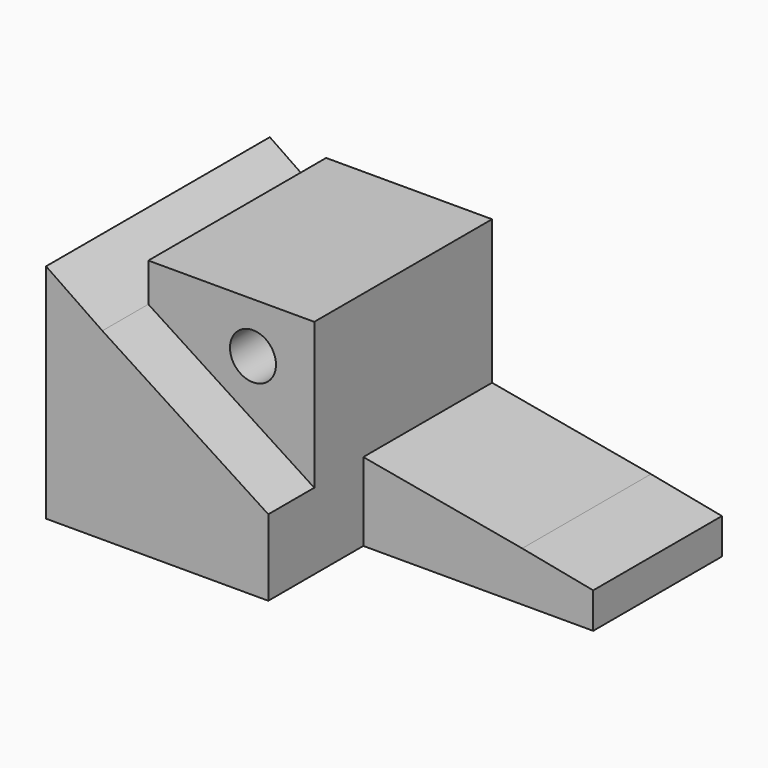
from build123d import *

# Parameters (mm, degrees)
F1_DEPTH  = 58
F3_DEPTH  = 58.001
F6_DEPTH  = 42.001
F7_DEPTH  = 15
F9_DEPTH  = 42.001
F10_R     = 6
F11_DEPTH = 26


with BuildPart() as f1:
    # F0 (on Top) → F1 (new body)
    with BuildSketch(Plane.XY):
        Polygon((0, 58), (0, 0), (58, 0), (58, 16), (16, 16), (16, 42), (88, 42), (88, 16), (118, 16), (118, 58), align=None)
        Polygon((16, 16), (58, 16), (88, 16), (88, 42), (16, 42), align=None)
    extrude(amount=F1_DEPTH)

    # F2 (on face) → F3 (cut, through all)
    with BuildSketch(Plane.XZ):
        Polygon((14.689402, 58), (0, 58), (14.689402, 47.95216), align=None)
    extrude(amount=-F3_DEPTH, mode=Mode.SUBTRACT)

    # F5 (on face) → F6 (cut, through all)
    with BuildSketch(Plane.XZ.offset(-16)):
        Polygon((118, 58), (97.528502, 58), (99.474385, 12.926235), (118, 9.312449), align=None)
    extrude(amount=-F6_DEPTH, mode=Mode.SUBTRACT)

    # F4 (on face) → F7 (join, symmetric)
    with BuildSketch(Plane.XZ):
        Polygon((58, 19.875824), (14.689402, 47.95216), (0, 58), (0, 0), (58, 0), align=None)
    extrude(amount=F7_DEPTH, both=True)

    # F8 (on face) → F9 (cut, through all)
    with BuildSketch(Plane.XZ.offset(-16)):
        Polygon((97.528502, 58), (58, 58), (58, 20.431791), (99.474385, 12.926235), align=None)
    extrude(amount=-F9_DEPTH, mode=Mode.SUBTRACT)

    # F10 (on face) → F11 (cut)
    with BuildSketch(Plane.XZ):
        with Locations((42, 44.894345)):
            Circle(F10_R)
    extrude(amount=-F11_DEPTH, mode=Mode.SUBTRACT)


solid = f1.part
